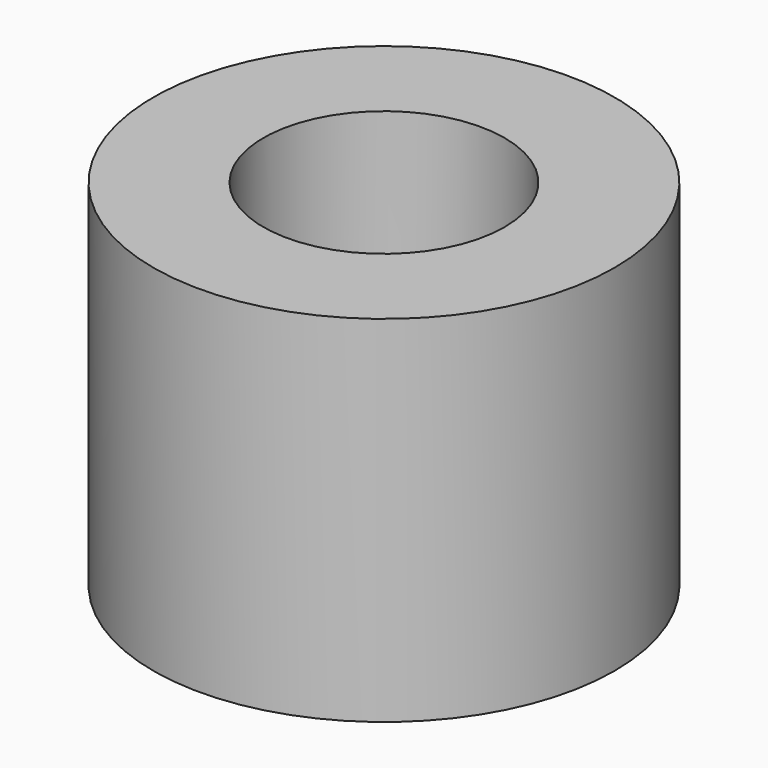
from build123d import *

# Parameters (mm, degrees)
CYLINDER001_R     = 1.7
CYLINDER001_DEPTH = 5
CYLINDER_R        = 3.25
CYLINDER_DEPTH    = 5


with BuildPart() as cylinder001:
    # Cylinder001 → Cylinder001 (new body)
    with BuildSketch(Plane.XY):
        Circle(CYLINDER001_R)
    extrude(amount=CYLINDER001_DEPTH)


with BuildPart() as cut:
    # Cylinder → Cylinder (new body)
    with BuildSketch(Plane.XY):
        Circle(CYLINDER_R)
    extrude(amount=CYLINDER_DEPTH)

    # Cut: cut Cylinder001
    add(cylinder001.part, mode=Mode.SUBTRACT)


solid = cut.part
